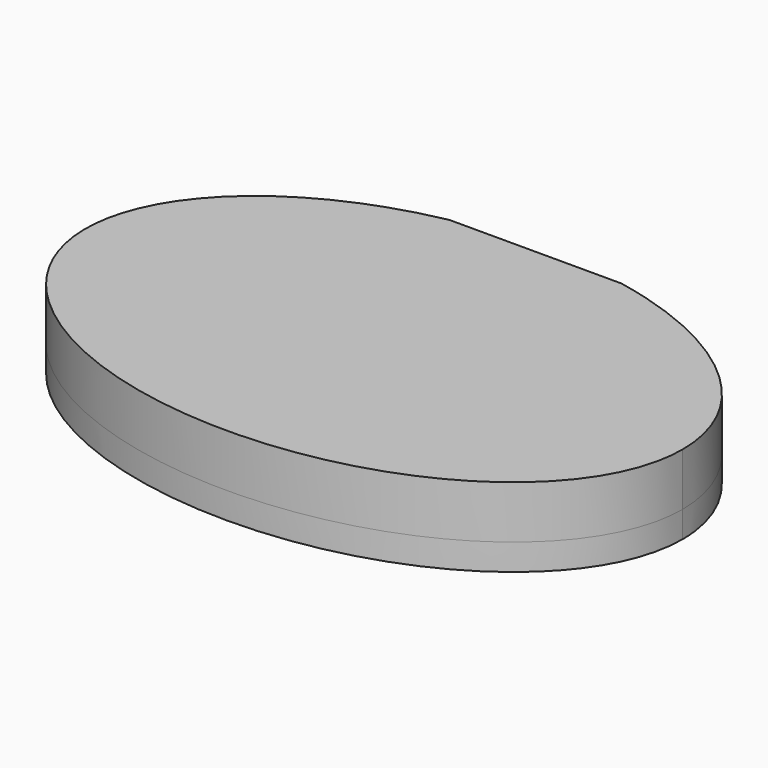
from build123d import *

# Parameters (mm, degrees)
PAD_DEPTH       = 6
POCKET_DEPTH    = 3
PAD001_DEPTH    = 3
SKETCH003_W     = 56
SKETCH003_H     = 3
POCKET001_DEPTH = 3
SKETCH004_W     = 19.6
SKETCH004_H     = 1
POCKET002_DEPTH = 9.001


with BuildPart() as part:
    # Sketch → Pad (new body)
    with BuildSketch(Plane.XY):
        with BuildLine():
            add(Edge.make_bspline(
                [(34, 0), (34, 38.971143), (-17, 19.485572), (-68, 0), (-17, -19.485572), (34, -38.971143), (34, 0)],
                knots=[0, 0, 0, 2.094395, 2.094395, 4.18879, 4.18879, 6.283185, 6.283185, 6.283185], degree=2, weights=[1, 0.5, 1, 0.5, 1, 0.5, 1]))
        make_face()
    extrude(amount=PAD_DEPTH)

    # Sketch001 (on Face2 of Pad) → Pocket (cut)
    with BuildSketch(Plane(origin=(0, 0, 0), x_dir=(1, 0, 0), z_dir=(0, 0, -1))):
        Polygon((9.775, -3.450064), (9.775, -21.550064), (-9.775, -21.550064), (-9.775, -3.450064), (-28.5, -3.450064), (-28.5, 8.549936), (28.5, 8.549936), (28.5, -3.450064), align=None)
    extrude(amount=-POCKET_DEPTH, mode=Mode.SUBTRACT)

    # Sketch002 (on Face2 of Pocket) → Pad001 (join)
    with BuildSketch(Plane(origin=(0, 0, 0), x_dir=(1, 0, 0), z_dir=(0, 0, -1))):
        with BuildLine():
            add(Edge.make_bspline(
                [(34, 0), (34, 38.971143), (-17, 19.485572), (-68, 0), (-17, -19.485572), (34, -38.971143), (34, 0)],
                knots=[0, 0, 0, 2.094395, 2.094395, 4.18879, 4.18879, 6.283185, 6.283185, 6.283185], degree=2, weights=[1, 0.5, 1, 0.5, 1, 0.5, 1]))
        make_face()
    extrude(amount=PAD001_DEPTH)

    # Sketch003 (on Face4 of Pad001) → Pocket001 (cut)
    with BuildSketch(Plane(origin=(0, 0, -3), x_dir=(1, 0, 0), z_dir=(0, 0, -1))):
        with Locations((0, 2.549936)):
            Rectangle(SKETCH003_W, SKETCH003_H)
    extrude(amount=-POCKET001_DEPTH, mode=Mode.SUBTRACT)

    # Sketch004 (on Face4 of Pocket001) → Pocket002 (cut, through all)
    with BuildSketch(Plane(origin=(0, 0, -3), x_dir=(1, 0, 0), z_dir=(0, 0, -1))):
        with Locations((0, -22.045091)):
            Rectangle(SKETCH004_W, SKETCH004_H)
    extrude(amount=-POCKET002_DEPTH, mode=Mode.SUBTRACT)


solid = part.part
